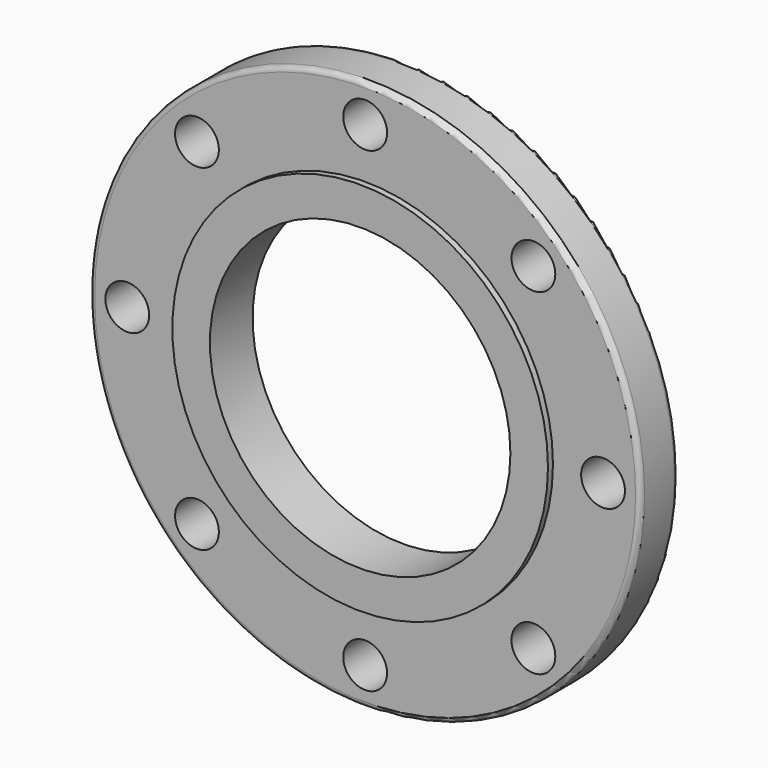
from build123d import *

# Parameters (mm, degrees)
F0_R     = 139.7
F0_R_2   = 11.1125
F0_R_3   = 76.2
F1_DEPTH = 23.876
F2_R     = 95.25
F2_R_2   = 76.2
F3_DEPTH = 3.175
F4_R     = 2.54


with BuildPart() as f1:
    # F0 (on Front) → F1 (new body)
    with BuildSketch(Plane.XZ):
        Circle(F0_R)
        with Locations((-85.312433, -85.312433)):
            Circle(F0_R_2, mode=Mode.SUBTRACT)
        with Locations((0, -120.65)):
            Circle(F0_R_2, mode=Mode.SUBTRACT)
        with Locations((85.312433, -85.312433)):
            Circle(F0_R_2, mode=Mode.SUBTRACT)
        with Locations((-120.65, 0)):
            Circle(F0_R_2, mode=Mode.SUBTRACT)
        with Locations((-85.312433, 85.312433)):
            Circle(F0_R_2, mode=Mode.SUBTRACT)
        Circle(F0_R_3, mode=Mode.SUBTRACT)
        with Locations((120.65, 0)):
            Circle(F0_R_2, mode=Mode.SUBTRACT)
        with Locations((0, 120.65)):
            Circle(F0_R_2, mode=Mode.SUBTRACT)
        with Locations((85.312433, 85.312433)):
            Circle(F0_R_2, mode=Mode.SUBTRACT)
    extrude(amount=F1_DEPTH)

    # F2 (on face) → F3 (join)
    with BuildSketch(Plane.XZ.offset(23.876)):
        Circle(F2_R)
        Circle(F2_R_2, mode=Mode.SUBTRACT)
    extrude(amount=F3_DEPTH)

    # F4
    f4_edges = [f1.edges().sort_by_distance(p)[0] for p in [
        (-139.7, -23.876, 0),
        (-139.7, 0, 0),
    ]]
    fillet(f4_edges, radius=F4_R)


solid = f1.part
